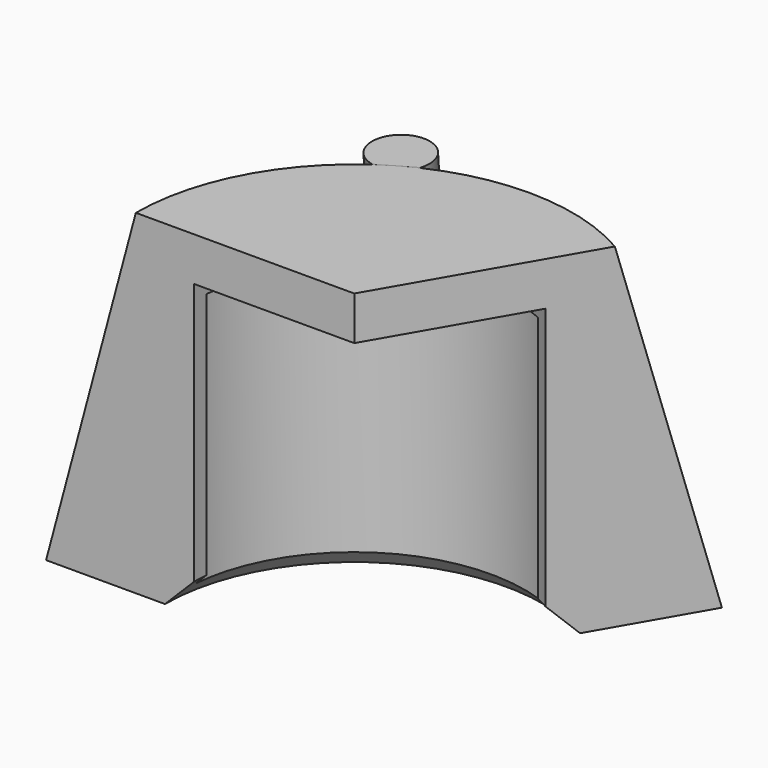
from build123d import *

# Parameters (mm, degrees)
F1_ANGLE = 120
F4_R     = 2
F5_DEPTH = 10
F7_DEPTH = 25
F9_DEPTH = 19


with BuildPart() as f1:
    # F0 (on Front) → F1 (revolve)
    with BuildSketch(Plane.XZ):
        Polygon((0, -3), (0, 0), (-15, 0), (-21.162831, -23), (-13, -23), (-11, -21), (-11, -3), align=None)
    revolve(axis=Axis((0, 0, -1.5), (0, 0, -1)), revolution_arc=F1_ANGLE)

    # F4 (on face) → F5 (join)
    with BuildSketch(Plane(origin=(-0.502405, 0.870191, -3.75), x_dir=(0.991591, 0.029252, -0.12606), z_dir=(-0.12941, 0.224144, -0.965926))):
        with Locations((-7.787523, -13.964204)):
            Circle(F4_R)
    extrude(amount=F5_DEPTH)

    # F6 (on face) → F7 (cut)
    with BuildSketch(Plane.XY):
        with BuildLine():
            Line((-15, 20), (-15, 0))
            ThreePointArc((-15, 0), (-10.606602, 10.606602), (0, 15))
            Line((0, 15), (0, 20))
            Line((0, 20), (-15, 20))
        make_face()
    extrude(amount=F7_DEPTH, mode=Mode.SUBTRACT)

    # F8 (on face) → F9 (cut)
    with BuildSketch(Plane(origin=(0, 0, -23), x_dir=(1, 0, 0), z_dir=(0, 0, -1))):
        with BuildLine():
            Line((-10.452272, -1), (-11.707369, -1))
            ThreePointArc((-11.707369, -1), (-5.875, -10.175798), (4.987659, -10.638879))
            Line((4.987659, -10.638879), (4.360111, -9.551933))
            ThreePointArc((4.360111, -9.551933), (-5.25, -9.093267), (-10.452272, -1))
        make_face()
    extrude(amount=-F9_DEPTH, mode=Mode.SUBTRACT)


solid = f1.part
